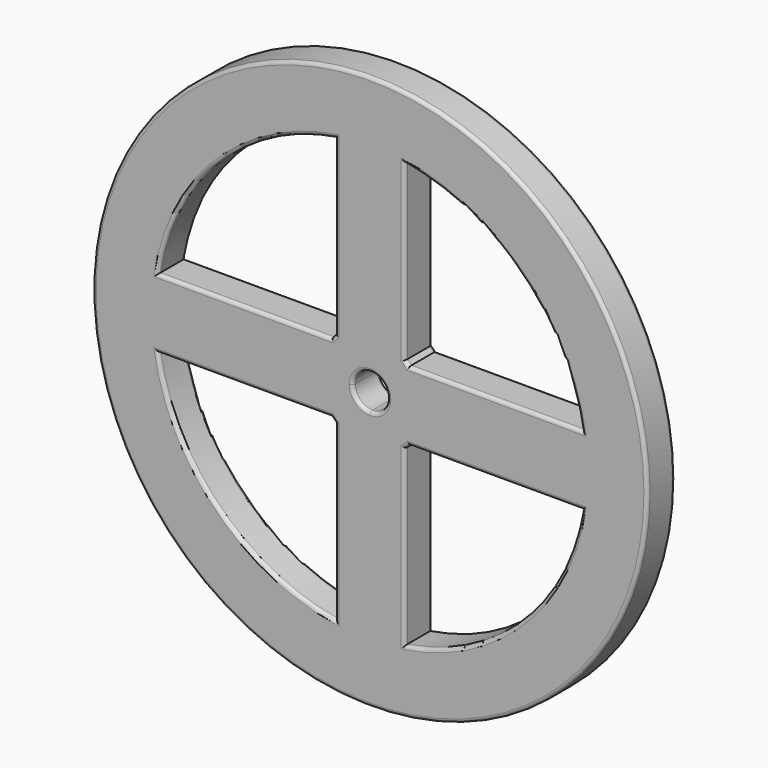
from build123d import *

# Parameters (mm, degrees)
F0_R     = 40
F1_DEPTH = 2.5
F2_R     = 0.5


with BuildPart() as f1:
    # F0 (on Front) → F1 (new body, symmetric)
    with BuildSketch(Plane.XZ):
        Circle(F0_R)
        with BuildLine():
            ThreePointArc((-5, -30.594117), (-21.92031, -21.92031), (-30.594117, -5))
            Line((-30.594117, -5), (-5.59017, -5))
            ThreePointArc((-5.59017, -5), (-5.303301, -5.303301), (-5, -5.59017))
            Line((-5, -5.59017), (-5, -30.594117))
        make_face(mode=Mode.SUBTRACT)
        with BuildLine():
            Line((5, -30.594117), (5, -5.59017))
            ThreePointArc((5, -5.59017), (5.303301, -5.303301), (5.59017, -5))
            Line((5.59017, -5), (30.594117, -5))
            ThreePointArc((30.594117, -5), (21.92031, -21.92031), (5, -30.594117))
        make_face(mode=Mode.SUBTRACT)
        with BuildLine():
            Line((-5, 30.594117), (-5, 5.59017))
            ThreePointArc((-5, 5.59017), (-5.303301, 5.303301), (-5.59017, 5))
            Line((-5.59017, 5), (-30.594117, 5))
            ThreePointArc((-30.594117, 5), (-21.92031, 21.92031), (-5, 30.594117))
        make_face(mode=Mode.SUBTRACT)
        with BuildLine():
            ThreePointArc((0, 2.5), (1.767767, 1.767767), (2.5, 0))
            ThreePointArc((2.5, 0), (1.767767, -1.767767), (0, -2.5))
            ThreePointArc((0, -2.5), (-1.767767, -1.767767), (-2.5, 0))
            ThreePointArc((-2.5, 0), (-1.767767, 1.767767), (0, 2.5))
        make_face(mode=Mode.SUBTRACT)
        with BuildLine():
            ThreePointArc((5.59017, 5), (5.303301, 5.303301), (5, 5.59017))
            Line((5, 5.59017), (5, 30.594117))
            ThreePointArc((5, 30.594117), (21.92031, 21.92031), (30.594117, 5))
            Line((30.594117, 5), (5.59017, 5))
        make_face(mode=Mode.SUBTRACT)
    extrude(amount=F1_DEPTH, both=True)

    # F2
    f2_edges = [f1.edges().sort_by_distance(p)[0] for p in [
        (-40, 2.5, 0),
        (-5, 2.5, -18.092144),
        (-21.92031, 2.5, -21.92031),
        (-18.092144, 2.5, -5),
        (-5.303301, 2.5, -5.303301),
        (5, 2.5, -18.092144),
        (5.303301, 2.5, -5.303301),
        (18.092144, 2.5, -5),
        (21.92031, 2.5, -21.92031),
        (-5, 2.5, 18.092144),
        (-5.303301, 2.5, 5.303301),
        (-18.092144, 2.5, 5),
        (-21.92031, 2.5, 21.92031),
        (-1.767767, 2.5, -1.767767),
        (-1.767767, 2.5, 1.767767),
        (1.767767, 2.5, 1.767767),
        (1.767767, 2.5, -1.767767),
        (18.092144, 2.5, 5),
        (5.303301, 2.5, 5.303301),
        (5, 2.5, 18.092144),
        (21.92031, 2.5, 21.92031),
        (-40, -2.5, 0),
        (-5, -2.5, -18.092144),
        (-21.92031, -2.5, -21.92031),
        (-18.092144, -2.5, -5),
        (-5.303301, -2.5, -5.303301),
        (5, -2.5, -18.092144),
        (5.303301, -2.5, -5.303301),
        (18.092144, -2.5, -5),
        (21.92031, -2.5, -21.92031),
        (-5, -2.5, 18.092144),
        (-5.303301, -2.5, 5.303301),
        (-18.092144, -2.5, 5),
        (-21.92031, -2.5, 21.92031),
        (-1.767767, -2.5, -1.767767),
        (-1.767767, -2.5, 1.767767),
        (1.767767, -2.5, 1.767767),
        (1.767767, -2.5, -1.767767),
        (18.092144, -2.5, 5),
        (5.303301, -2.5, 5.303301),
        (5, -2.5, 18.092144),
        (21.92031, -2.5, 21.92031),
    ]]
    fillet(f2_edges, radius=F2_R)


solid = f1.part
